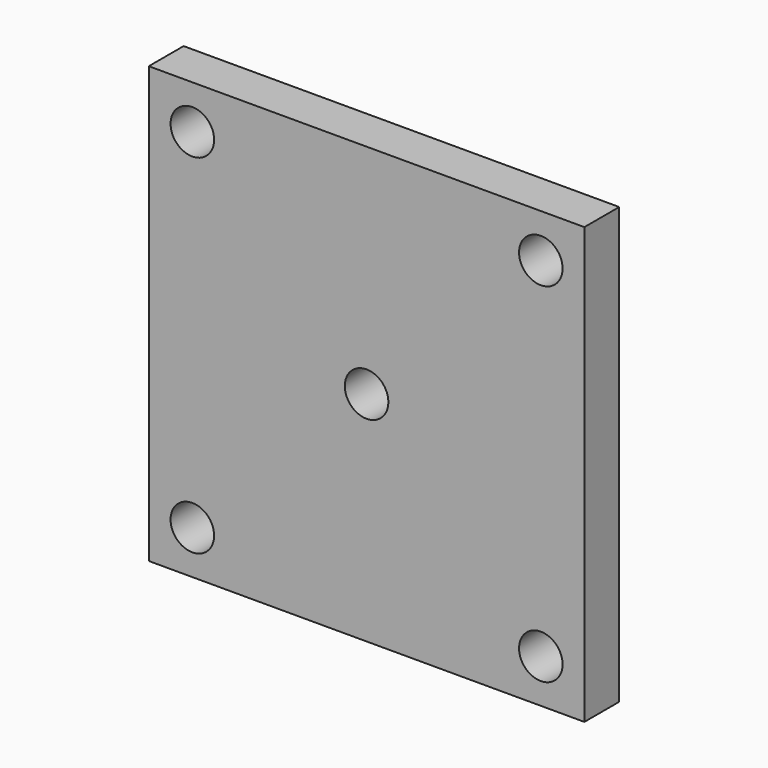
from build123d import *

# Parameters (mm, degrees)
F0_W     = 60
F0_H     = 60
F0_R     = 3
F1_DEPTH = 6


with BuildPart() as f1:
    # F0 (on Front) → F1 (new body)
    with BuildSketch(Plane.XZ):
        Rectangle(F0_W, F0_H)
        with Locations((-24, -24)):
            Circle(F0_R, mode=Mode.SUBTRACT)
        with Locations((24, -24)):
            Circle(F0_R, mode=Mode.SUBTRACT)
        with Locations((-24, 24)):
            Circle(F0_R, mode=Mode.SUBTRACT)
        Circle(F0_R, mode=Mode.SUBTRACT)
        with Locations((24, 24)):
            Circle(F0_R, mode=Mode.SUBTRACT)
    extrude(amount=F1_DEPTH)


solid = f1.part
